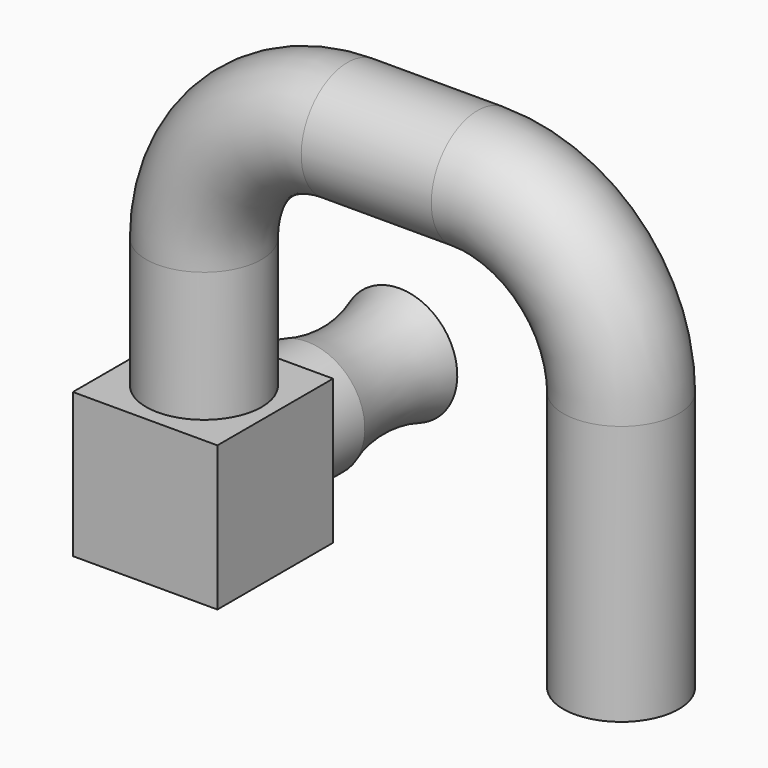
from build123d import *

# Parameters (mm, degrees)
F1_W          = 50
F1_H          = 50
F2_DEPTH      = 25
F2_DEPTH_BACK = 25
F3_R          = 20
F5_R          = 20
F6_DEPTH      = 60


with BuildPart() as f2:
    # F1 (on Front) → F2 (new body, two sides)
    with BuildSketch(Plane.XZ) as f2_sk:
        with Locations((-130.9041270614, 4.8024594039)):
            Rectangle(F1_W, F1_H)
    extrude(amount=F2_DEPTH)
    extrude(f2_sk.sketch, amount=-F2_DEPTH_BACK)

    # F5 (on face) → F6 (join)
    with BuildSketch(Plane(origin=(0, 25, 0), x_dir=(-1, 0, 0), z_dir=(0, 1, 0))):
        with Locations((130.9041270614, 4.8024594039)):
            Circle(F5_R)
    extrude(amount=F6_DEPTH)

    # F8 (on offset) → F9 (revolve, cut)
    with BuildSketch(Plane(origin=(-130.9041270614, 0, 0), x_dir=(0, -1, 0), z_dir=(-1, 0, 0))):
        with BuildLine():
            Line((-45, 24.8024594039), (-85, 24.8024594039))
            ThreePointArc((-85, 24.8024594039), (-65, 21.3710018988), (-45, 24.8024594039))
        make_face()
    revolve(axis=Axis((-130.9041270614, 85, 4.8024594039), (0, 1, 0)), mode=Mode.SUBTRACT)


with BuildPart() as f4:
    # F4: sweep along a path in F0
    with BuildLine(Plane.XZ) as f4_path:
        Line((-130.9041270614, -20.2654755116), (-130.9041270614, 74.7345244884))
        ThreePointArc((-130.9041270614, 74.7345244884), (-116.2594661207, 110.0898635478), (-80.9041270614, 124.7345244884))
        Line((-80.9041270614, 124.7345244884), (-35.9041270614, 124.7345244884))
        ThreePointArc((-35.9041270614, 124.7345244884), (-0.548788002, 110.0898635478), (14.0958729386, 74.7345244884))
        Line((14.0958729386, 74.7345244884), (14.0958729386, -15.2654755116))
    # F3 (on face) → F4 (sweep)
    with BuildSketch(Plane(origin=(0, 0, -20.1975405961), x_dir=(1, 0, 0), z_dir=(0, 0, -1))):
        with Locations((-130.5698901415, 0)):
            Circle(F3_R)
    sweep(path=f4_path.line)


solid = Compound([f2.part, f4.part])
